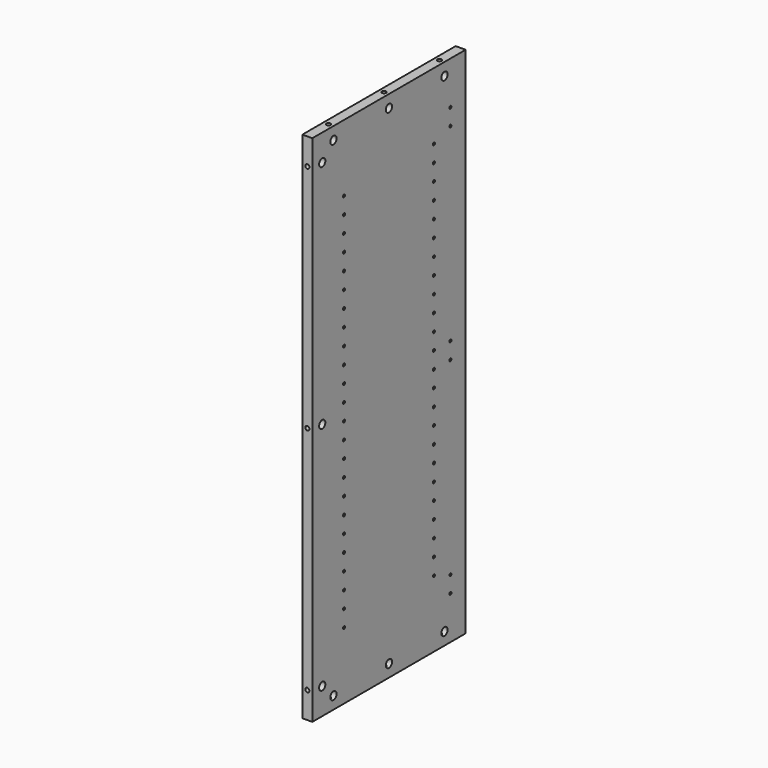
from build123d import *

# Parameters (mm, degrees)
F0_W      = 368.3
F0_H      = 987.425
F1_DEPTH  = 19.05
F3_D      = 5.0038
F3_DEPTH  = 25.4
F3_TIP    = 1.5032931827
F5_D      = 15.0114
F5_DEPTH  = 14.224
F5_TIP    = 4.5098795482
F6_D      = 5.0038
F6_DEPTH  = 14.224
F6_TIP    = 1.5032931827
F8_D      = 15.0114
F8_DEPTH  = 14.224
F8_TIP    = 4.5098795482
F10_D     = 8.001
F10_DEPTH = 25.4
F10_TIP   = 2.4037429064
F12_D     = 8.001
F12_DEPTH = 25.4
F12_TIP   = 2.4037429064
F14_D     = 8.001
F14_DEPTH = 25.4
F14_TIP   = 2.4037429064


with BuildPart() as f1:
    # F0 (on Right) → F1 (new body)
    with BuildSketch(Plane.YZ):
        Rectangle(F0_W, F0_H)
    extrude(amount=F1_DEPTH)

    # F3
    with Locations(Plane.YZ.offset(19.05)):
        with Locations((-107.95, 365.1885), (-107.95, 301.6885), (-107.95, 269.9385), (-107.95, 206.4385), (-107.95, 174.6885), (-107.95, 111.1885), (-107.95, 79.4385), (-107.95, 15.9385), (-107.95, -15.8115), (-107.95, -47.5615), (-107.95, -79.3115), (-107.95, -111.0615), (-107.95, -174.5615), (-107.95, -206.3115), (-107.95, -269.8115), (-107.95, -301.5615), (-107.95, -333.3115), (-107.95, -365.0615), (107.95, -365.0615), (107.95, -301.5615), (107.95, -269.8115), (107.95, -206.3115), (107.95, -174.5615), (107.95, -111.0615), (107.95, -79.3115), (107.95, -15.8115), (107.95, 15.9385), (107.95, 79.4385), (107.95, 111.1885), (107.95, 174.6885), (107.95, 206.4385), (107.95, 238.1885), (107.95, 269.9385), (107.95, 301.6885), (107.95, 365.1885), (-107.95, 333.4385), (107.95, 333.4385), (-107.95, 238.1885), (-107.95, 142.9385), (107.95, 142.9385), (107.95, 47.6885), (-107.95, 47.6885), (107.95, -47.5615), (107.95, -142.8115), (-107.95, -142.8115), (-107.95, -238.0615), (107.95, -238.0615), (107.95, -333.3115)):
            Hole(F3_D / 2, depth=F3_DEPTH)
            with Locations((0, 0, -(F3_DEPTH + F3_TIP / 2))):  # 118° drill point
                Cone(0, F3_D / 2, F3_TIP, mode=Mode.SUBTRACT)

    # F5
    with Locations(Plane.YZ.offset(19.05)):
        with Locations((-133.35, -469.8365), (0, -469.8365), (133.35, -469.8365), (-133.35, 469.8365), (0, 469.8365), (133.35, 469.8365)):
            Hole(F5_D / 2, depth=F5_DEPTH)
            with Locations((0, 0, -(F5_DEPTH + F5_TIP / 2))):  # 118° drill point
                Cone(0, F5_D / 2, F5_TIP, mode=Mode.SUBTRACT)

    # F6
    with Locations(Plane.YZ.offset(19.05)):
        with Locations((-147.574, 411.1625), (-147.574, 379.4125), (-147.574, 15.875), (-147.574, -15.875), (-147.574, -379.4125), (-147.574, -411.1625)):
            Hole(F6_D / 2, depth=F6_DEPTH)
            with Locations((0, 0, -(F6_DEPTH + F6_TIP / 2))):  # 118° drill point
                Cone(0, F6_D / 2, F6_TIP, mode=Mode.SUBTRACT)

    # F8
    with Locations(Plane.YZ.offset(19.05)):
        with Locations((160.274, 442.9125), (160.274, 0), (160.274, -442.9125)):
            Hole(F8_D / 2, depth=F8_DEPTH)
            with Locations((0, 0, -(F8_DEPTH + F8_TIP / 2))):  # 118° drill point
                Cone(0, F8_D / 2, F8_TIP, mode=Mode.SUBTRACT)

    # F10
    with Locations(Plane(origin=(0, 0, -493.7125), x_dir=(1, 0, 0), z_dir=(0, 0, -1))):
        with Locations((9.525, 133.35), (9.525, 0), (9.525, -133.35)):
            Hole(F10_D / 2, depth=F10_DEPTH)
            with Locations((0, 0, -(F10_DEPTH + F10_TIP / 2))):  # 118° drill point
                Cone(0, F10_D / 2, F10_TIP, mode=Mode.SUBTRACT)

    # F12
    with Locations(Plane.XY.offset(493.7125)):
        with Locations((9.525, 133.35), (9.525, 0), (9.525, -133.35)):
            Hole(F12_D / 2, depth=F12_DEPTH)
            with Locations((0, 0, -(F12_DEPTH + F12_TIP / 2))):  # 118° drill point
                Cone(0, F12_D / 2, F12_TIP, mode=Mode.SUBTRACT)

    # F14
    with Locations(Plane(origin=(0, 184.15, 0), x_dir=(-1, 0, 0), z_dir=(0, 1, 0))):
        with Locations((-9.525, -442.9125), (-9.525, 0), (-9.525, 442.9125)):
            Hole(F14_D / 2, depth=F14_DEPTH)
            with Locations((0, 0, -(F14_DEPTH + F14_TIP / 2))):  # 118° drill point
                Cone(0, F14_D / 2, F14_TIP, mode=Mode.SUBTRACT)


with BuildPart() as f15_1:
    # F15: instance of F1
    add(f1.part.mirror(Plane(origin=(9.525, 184.15, 0), x_dir=(-1, 0, 0), z_dir=(0, 1, 0))))


solid = f15_1.part
